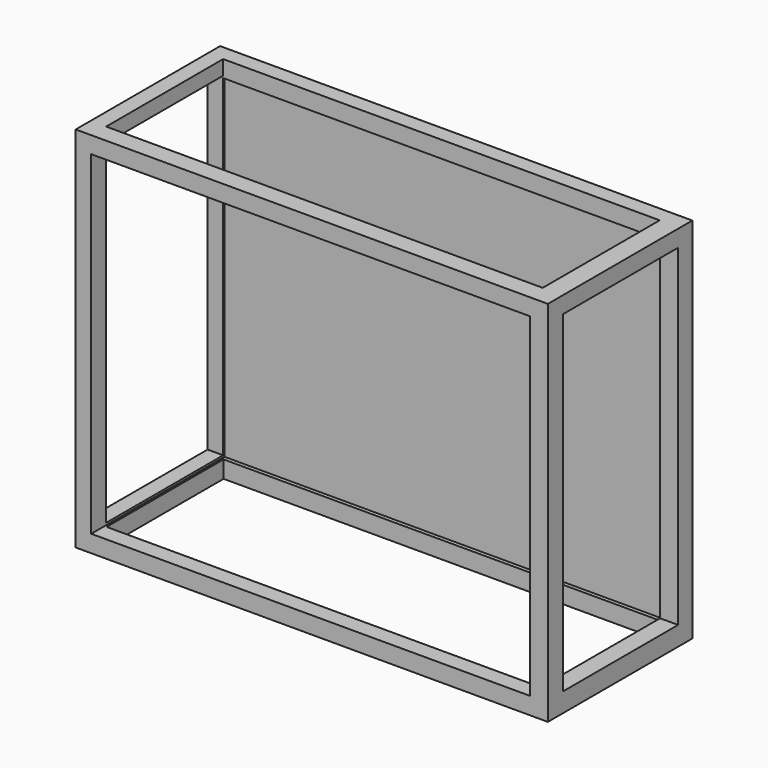
from build123d import *

# Parameters (mm, degrees)
F0_W      = 68
F0_H      = 53
F1_DEPTH  = 26
F2_W      = 63.165789
F2_H      = 48.126318
F3_DEPTH  = 24
F4_W      = 20.754472
F4_H      = 47.825529
F5_DEPTH  = 25.4
F6_W      = 62.564209
F6_H      = 21.055263
F7_DEPTH  = 25.4
F8_W      = 62.865002
F8_H      = 21.055264
F9_DEPTH  = 25.4
F10_W     = 21.055262
F10_H     = 48.126317
F11_DEPTH = 25.4


with BuildPart() as f1:
    # F0 (on Front) → F1 (new body)
    with BuildSketch(Plane.XZ):
        with Locations((-9.898553, 29.29739)):
            Rectangle(F0_W, F0_H)
    extrude(amount=F1_DEPTH)

    # F2 (on face) → F3 (cut)
    with BuildSketch(Plane.XZ.offset(26)):
        with Locations((-10.076449, 29.326975)):
            Rectangle(F2_W, F2_H)
    extrude(amount=-F3_DEPTH, mode=Mode.SUBTRACT)

    # F4 (on face) → F5 (cut)
    with BuildSketch(Plane.YZ.offset(24.101447)):
        with Locations((-12.933949, 29.477369)):
            Rectangle(F4_W, F4_H)
    extrude(amount=-F5_DEPTH, mode=Mode.SUBTRACT)

    # F6 (on face) → F7 (cut)
    with BuildSketch(Plane(origin=(0, 0, 2.79739), x_dir=(1, 0, 0), z_dir=(0, 0, -1))):
        with Locations((-10.076449, 13.084342)):
            Rectangle(F6_W, F6_H)
    extrude(amount=-F7_DEPTH, mode=Mode.SUBTRACT)

    # F8 (on face) → F9 (cut)
    with BuildSketch(Plane.XY.offset(55.79739)):
        with Locations((-10.226843, -12.783553)):
            Rectangle(F8_W, F8_H)
    extrude(amount=-F9_DEPTH, mode=Mode.SUBTRACT)

    # F10 (on face) → F11 (cut)
    with BuildSketch(Plane(origin=(-43.898553, 0, 0), x_dir=(0, -1, 0), z_dir=(-1, 0, 0))):
        with Locations((12.783554, 29.627764)):
            Rectangle(F10_W, F10_H)
    extrude(amount=-F11_DEPTH, mode=Mode.SUBTRACT)


solid = f1.part
